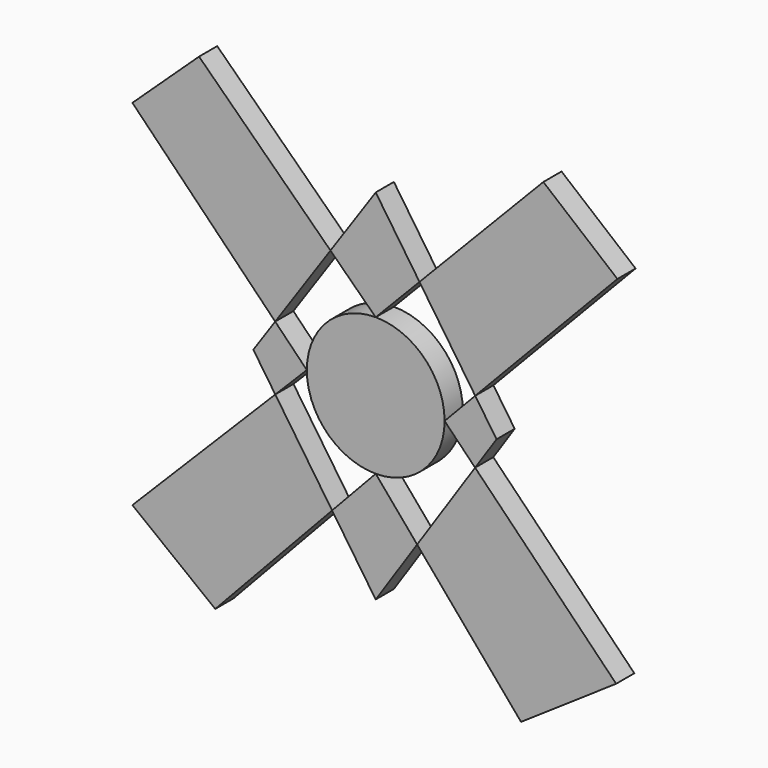
from build123d import *

# Parameters (mm, degrees)
F1_DEPTH = 7


with BuildPart() as f1:
    # F0 (on Front) → F1 (new body)
    with BuildSketch(Plane.XZ):
        with BuildLine():
            ThreePointArc((0, -21.2211485282), (15.0056180289, -15.0056180289), (21.2211485282, 0))
            ThreePointArc((21.2211485282, 0), (15.0056180289, 15.0056180289), (0, 21.2211485282))
            ThreePointArc((0, 21.2211485282), (-15.0056180289, 15.0056180289), (-21.2211485282, 0))
            ThreePointArc((-21.2211485282, 0), (-15.0056180289, -15.0056180289), (0, -21.2211485282))
        make_face()
    extrude(amount=F1_DEPTH)


with BuildPart() as f1b:
    # F0 (on Front) → F1, piece 2 (new body)
    with BuildSketch(Plane.XZ):
        Polygon((-13.9298583474, 34.7853076235), (0, 21.2211485282), (13.490145677, 35.1918488728), (0, 55.0759360194), align=None)
    extrude(amount=F1_DEPTH)


with BuildPart() as f1c:
    # F0 (on Front) → F1, piece 3 (new body)
    with BuildSketch(Plane.XZ):
        Polygon((12.7684192229, -36.2632952124), (0, -21.2211485282), (-13.4308659869, -35.5517526687), (0, -55.321265012), align=None)
    extrude(amount=F1_DEPTH)


with BuildPart() as f1d:
    # F0 (on Front) → F1, piece 4 (new body)
    with BuildSketch(Plane.XZ):
        Polygon((30.6553779083, 9.890789733), (21.2211485282, 0), (30.6188318239, -9.6200108463), (37.213906036, 0.2237077038), align=None)
    extrude(amount=F1_DEPTH)


with BuildPart() as f1e:
    # F0 (on Front) → F1, piece 5 (new body)
    with BuildSketch(Plane.XZ):
        Polygon((-30.9374849861, -9.7829511085), (-21.2211485282, 0), (-30.9638172982, 9.9731578827), (-37.6965631901, 0.1660484656), align=None)
    extrude(amount=F1_DEPTH)


with BuildPart() as f1f:
    # F0 (on Front) → F1, piece 6 (new body)
    with BuildSketch(Plane.XZ):
        Polygon((13.490145677, 35.1918488728), (30.6553779083, 9.890789733), (74.4567811489, 55.8119192719), (51.6413562, 74.7021064162), align=None)
    extrude(amount=F1_DEPTH)


with BuildPart() as f1g:
    # F0 (on Front) → F1, piece 7 (new body)
    with BuildSketch(Plane.XZ):
        Polygon((-30.9638172982, 9.9731578827), (-13.9298583474, 34.7853076235), (-54.4189632423, 74.2114558816), (-74.9474316835, 54.9973233217), align=None)
    extrude(amount=F1_DEPTH)


with BuildPart() as f1h:
    # F0 (on Front) → F1, piece 8 (new body)
    with BuildSketch(Plane.XZ):
        Polygon((-49.433413893, -73.9661231637), (-13.4308659869, -35.5517526687), (-30.9374849861, -9.7829511085), (-74.9474316835, -54.0946274996), align=None)
    extrude(amount=F1_DEPTH)


with BuildPart() as f1i:
    # F0 (on Front) → F1, piece 9 (new body)
    with BuildSketch(Plane.XZ):
        Polygon((74.0655980158, -54.0946274996), (30.6188318239, -9.6200108463), (12.7684192229, -36.2632952124), (44.7721965611, -73.9661231637), align=None)
    extrude(amount=F1_DEPTH)


solid = Compound([f1.part, f1b.part, f1c.part, f1d.part, f1e.part, f1f.part, f1g.part, f1h.part, f1i.part])
